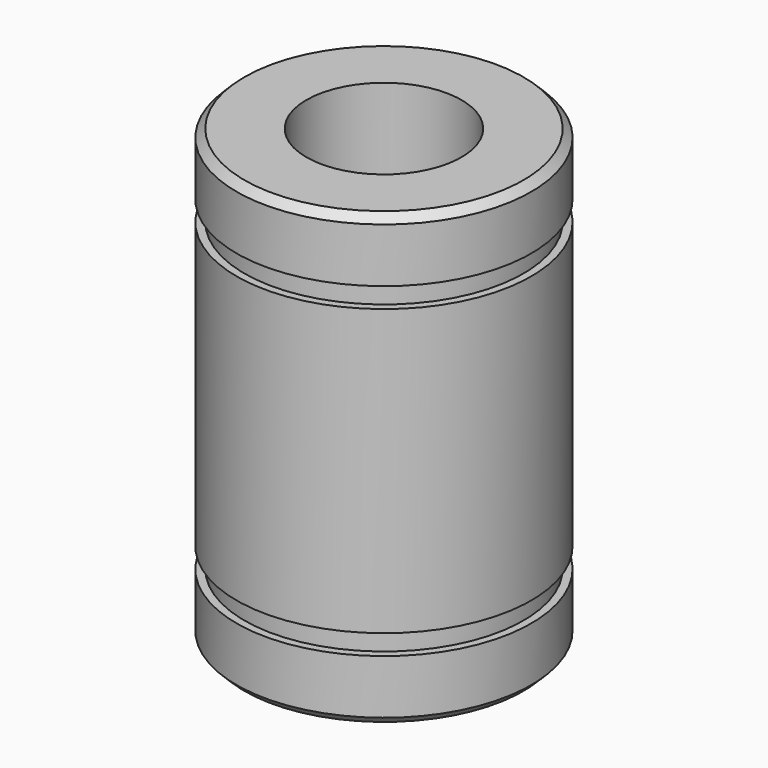
from build123d import *

# Parameters (mm, degrees)
F2_SIZE = 0.5


with BuildPart() as f1:
    # F0 (on Front) → F1 (revolve)
    with BuildSketch(Plane.XZ):
        Polygon((-9.5, 4), (-9.5, 0), (-5, 0), (-5, 29), (-9.5, 29), (-9.5, 25), (-9, 25), (-9, 23.7), (-9.5, 23.7), (-9.5, 5.3), (-9, 5.3), (-9, 4), align=None)
    revolve(axis=Axis((0, 0, 15.405319), (0, 0, -1)))

    # F2
    f2_edges = [f1.edges().sort_by_distance(p)[0] for p in [
        (9.5, 0, 29),
        (9.5, 0, 0),
    ]]
    chamfer(f2_edges, length=F2_SIZE)


solid = f1.part
